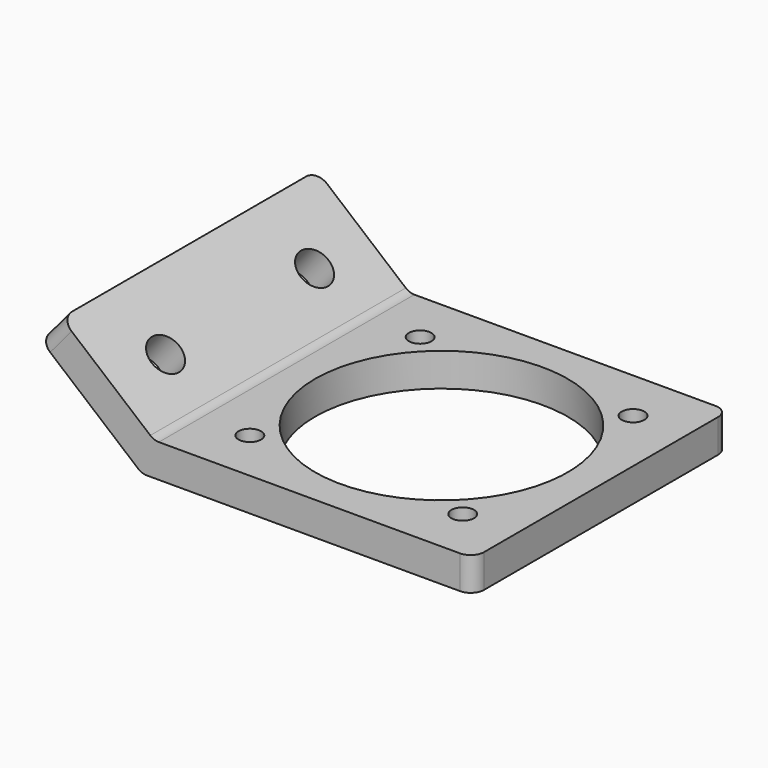
from build123d import *

# Parameters (mm, degrees)
F1_DEPTH = 48
F2_R     = 2.65
F3_DEPTH = 5
F4_R     = 19
F4_R_2   = 1.7
F5_DEPTH = 5
F6_ANGLE = 40
F7_ANGLE = 90
F8_R     = 2


with BuildPart() as f1:
    # F0 (on Top) → F1 (new body)
    with BuildSketch(Plane.XY):
        Polygon((-1.8198511713, 5), (-20, 5), (-20, 0), (0, 0), (38.1642201468, 32.0235830494), (34.9502820984, 35.853805265), align=None)
    extrude(amount=F1_DEPTH)

    # F2 (on face) → F3 (cut, through all)
    with BuildSketch(Plane(origin=(0, 5, 0), x_dir=(-1, 0, 0), z_dir=(0, 1, 0))):
        with Locations((10, 10)):
            Circle(F2_R)
        with Locations((10, 38)):
            Circle(F2_R)
    extrude(amount=-F3_DEPTH, mode=Mode.SUBTRACT)

    # F4 (on face) → F5 (cut, through all)
    with BuildSketch(Plane(origin=(-3.2139380484, 3.8302222156, 0), x_dir=(-0.7660444431, -0.6427876097, 0), z_dir=(-0.6427876097, 0.7660444431, 0))):
        with Locations((-25.8198511713, 24)):
            Circle(F4_R)
        with Locations((-9.8198511713, 40)):
            Circle(F4_R_2)
        with Locations((-9.8198511713, 8)):
            Circle(F4_R_2)
        with Locations((-41.8198511713, 8)):
            Circle(F4_R_2)
        with Locations((-41.8198511713, 40)):
            Circle(F4_R_2)
    extrude(amount=-F5_DEPTH, mode=Mode.SUBTRACT)


with BuildPart() as f1_1:
    # F6: moved
    add(f1.part.rotate(Axis((0, 0, 24), (0, 0, -1)), F6_ANGLE))


with BuildPart() as f1_2:
    # F7: moved
    add(f1_1.part.rotate(Axis((24.9099255857, 0, 0), (1, 0, 0)), F7_ANGLE))

    # F8
    f8_edges = [f1_2.edges().sort_by_distance(p)[0] for p in [
        (1.819851, -24, 5),
        (0, -24, 0),
        (-13.71392, 0, 14.770863),
        (-13.71392, -48, 14.770863),
        (49.819851, 0, 2.5),
        (49.819851, -48, 2.5),
    ]]
    fillet(f8_edges, radius=F8_R)


solid = f1_2.part
